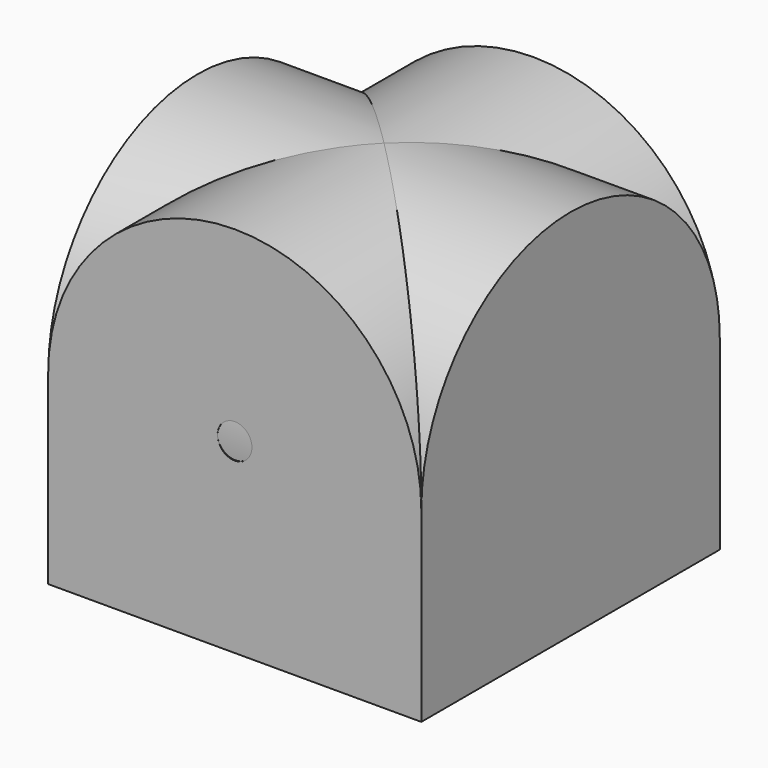
from build123d import *

# Parameters (mm, degrees)
F0_R     = 2.339816
F1_DEPTH = 50.8
F2_R     = 25.4
F3_DEPTH = 50.8


with BuildPart() as f1:
    # F0 (on Front) → F1 (new body)
    with BuildSketch(Plane.XZ):
        with BuildLine():
            Line((25.4, -25.4), (25.4, 0))
            ThreePointArc((25.4, 0), (0, 25.4), (-25.4, 0))
            Line((-25.4, 0), (-25.4, -25.4))
            Line((-25.4, -25.4), (25.4, -25.4))
        make_face()
        Circle(F0_R, mode=Mode.SUBTRACT)
    extrude(amount=F1_DEPTH)

    # F2 (on face) → F3 (join)
    with BuildSketch(Plane.YZ.offset(25.4)):
        with Locations((-25.4, 0)):
            Circle(F2_R)
    extrude(amount=-F3_DEPTH)


solid = f1.part
